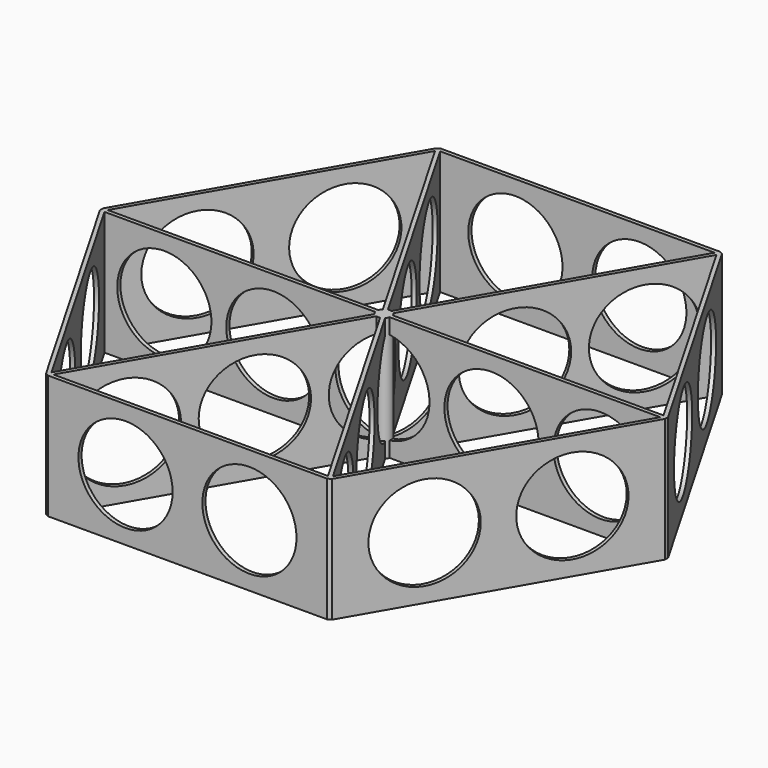
from build123d import *

# Parameters (mm, degrees)
SKETCH_R              = 9.5
PAD_DEPTH             = 0.4
POLARPATTERN_COUNT    = 6
PAD001_DEPTH          = 25
POLARPATTERN001_COUNT = 6
SKETCH002_R           = 9.5
POCKET_DEPTH          = 2
POLARPATTERN002_COUNT = 6
SKETCH003_R           = 1.5
PAD002_DEPTH          = 25


with BuildPart() as part:
    # Sketch → Pad (new body, symmetric)
    with BuildSketch(Plane.XZ):
        with BuildLine():
            Line((0, 0), (57, 0))
            Line((57, 0), (57, 25))
            Line((57, 25), (0, 25))
            Line((0, 25), (0, 22))
            ThreePointArc((0, 3), (9.5, 12.5), (0, 22))
            Line((0, 3), (0, 0))
        make_face()
        with Locations((22, 12.5)):
            Circle(SKETCH_R, mode=Mode.SUBTRACT)
        with Locations((44, 12.5)):
            Circle(SKETCH_R, mode=Mode.SUBTRACT)
    pad = extrude(amount=PAD_DEPTH, both=True)

    # PolarPattern: Pad ×6 about axis
    polarpattern_axis = Axis((0, 0, 0), (0, 0, 1))
    for i in range(1, POLARPATTERN_COUNT):
        add(pad.rotate(polarpattern_axis, i * 360 / POLARPATTERN_COUNT))

    # Sketch001 (on Face55 of PolarPattern) → Pad001 (join)
    with BuildSketch(Plane(origin=(0, 0, 25), x_dir=(-1, 0, 0), z_dir=(0, 0, 1))):
        Polygon((-28.15359, 49.563448), (28.15359, 49.563448), (27.69171, 48.763448), (-27.69171, 48.763448), align=None)
    pad001 = extrude(amount=-PAD001_DEPTH)

    # PolarPattern001: Pad001 ×6 about axis
    polarpattern001_axis = Axis((0, 0, 25), (0, 0, 1))
    for i in range(1, POLARPATTERN001_COUNT):
        add(pad001.rotate(polarpattern001_axis, i * 360 / POLARPATTERN001_COUNT))

    # Sketch002 (on Face59 of Pad001) → Pocket (cut)
    with BuildSketch(Plane.XZ.offset(49.563448)):
        with Locations((-12.5, 12.5)):
            Circle(SKETCH002_R)
        with Locations((12.5, 12.5)):
            Circle(SKETCH002_R)
    pocket = extrude(amount=-POCKET_DEPTH, mode=Mode.SUBTRACT)

    # PolarPattern002: Pocket ×6 about axis
    polarpattern002_axis = Axis((0, 0, 0), (0, 0, 1))
    for i in range(1, POLARPATTERN002_COUNT):
        add(pocket.rotate(polarpattern002_axis, i * 360 / POLARPATTERN002_COUNT), mode=Mode.SUBTRACT)

    # Sketch003 (on Face81 of PolarPattern002) → Pad002 (join)
    with BuildSketch(Plane(origin=(0, 0, 25), x_dir=(-1, 0, 0), z_dir=(0, 0, 1))):
        Circle(SKETCH003_R)
    extrude(amount=-PAD002_DEPTH)


solid = part.part
